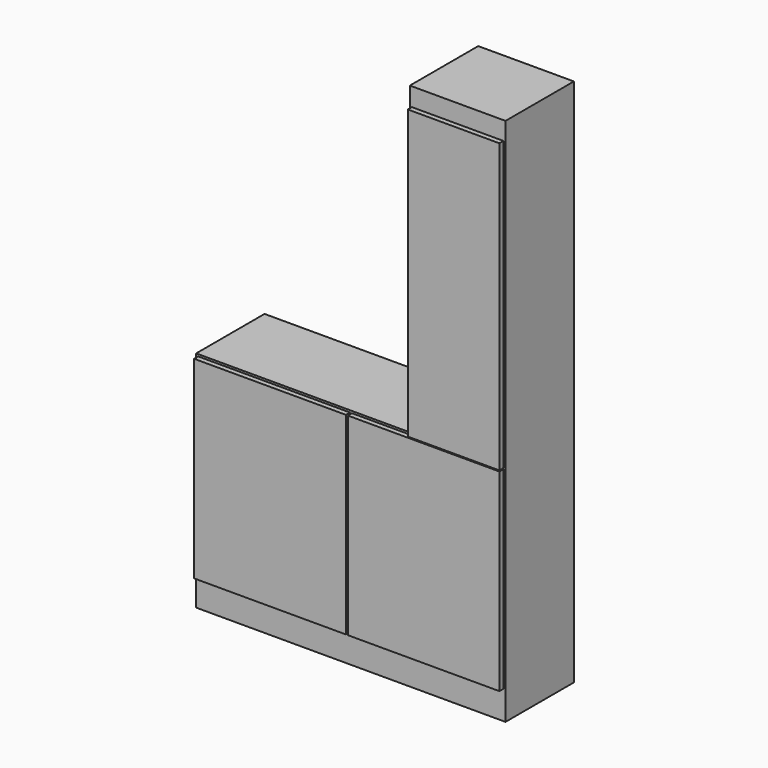
from build123d import *

# Parameters (mm, degrees)
F0_W      = 1520
F0_H      = 420
F1_DEPTH  = 2600
F2_W      = 1050
F2_H      = 1500
F3_DEPTH  = 420.001
F5_W      = 430
F5_H      = 1400
F6_DEPTH  = 400
F7_W      = 1480
F7_H      = 170
F8_DEPTH  = 400
F9_W      = 745.686335722
F9_H      = 950
F10_DEPTH = 25
F9_W_2    = 744.313664278
F9_W_3    = 450
F9_H_2    = 1415
F11_W     = 430
F11_H     = 20
F12_DEPTH = 400


with BuildPart() as f1:
    # F0 (on Top) → F1 (new body)
    with BuildSketch(Plane.XY):
        with Locations((760, 210)):
            Rectangle(F0_W, F0_H)
    extrude(amount=F1_DEPTH)

    # F2 (on face) → F3 (cut, through all)
    with BuildSketch(Plane.XZ):
        with Locations((525, 1850)):
            Rectangle(F2_W, F2_H)
    extrude(amount=-F3_DEPTH, mode=Mode.SUBTRACT)

    # F5 (on face) → F6 (cut, through all)
    with BuildSketch(Plane.XZ):
        with Locations((1285, 1800)):
            Rectangle(F5_W, F5_H)
    extrude(amount=-F6_DEPTH, mode=Mode.SUBTRACT)

    # F7 (on face) → F8 (cut, through all)
    with BuildSketch(Plane.XZ):
        with Locations((760, 235)):
            Rectangle(F7_W, F7_H)
        with Locations((760, 995)):
            Rectangle(F7_W, F7_H)
        with Locations((760, 425)):
            Rectangle(F7_W, F7_H)
        with Locations((760, 615)):
            Rectangle(F7_W, F7_H)
        with Locations((760, 805)):
            Rectangle(F7_W, F7_H)
    extrude(amount=-F8_DEPTH, mode=Mode.SUBTRACT)

    # F11 (on offset) → F12 (join, through all)
    with BuildSketch(Plane(origin=(0, 400, 0), x_dir=(-1, 0, 0), z_dir=(0, 1, 0))):
        with Locations((-1285, 1310)):
            Rectangle(F11_W, F11_H)
    extrude(amount=-F12_DEPTH)


with BuildPart() as f10:
    # F9 (on Front) → F10 (new body)
    with BuildSketch(Plane.XZ):
        with Locations((382.843167861, 615)):
            Rectangle(F9_W, F9_H)
    extrude(amount=F10_DEPTH)


with BuildPart() as f10b:
    # F9 (on Front) → F10, piece 2 (new body)
    with BuildSketch(Plane.XZ):
        with Locations((1137.843167861, 615)):
            Rectangle(F9_W_2, F9_H)
    extrude(amount=F10_DEPTH)


with BuildPart() as f10c:
    # F9 (on Front) → F10, piece 3 (new body)
    with BuildSketch(Plane.XZ):
        with Locations((1285, 1802.5)):
            Rectangle(F9_W_3, F9_H_2)
    extrude(amount=F10_DEPTH)


solid = Compound([f1.part, f10.part, f10b.part, f10c.part])
